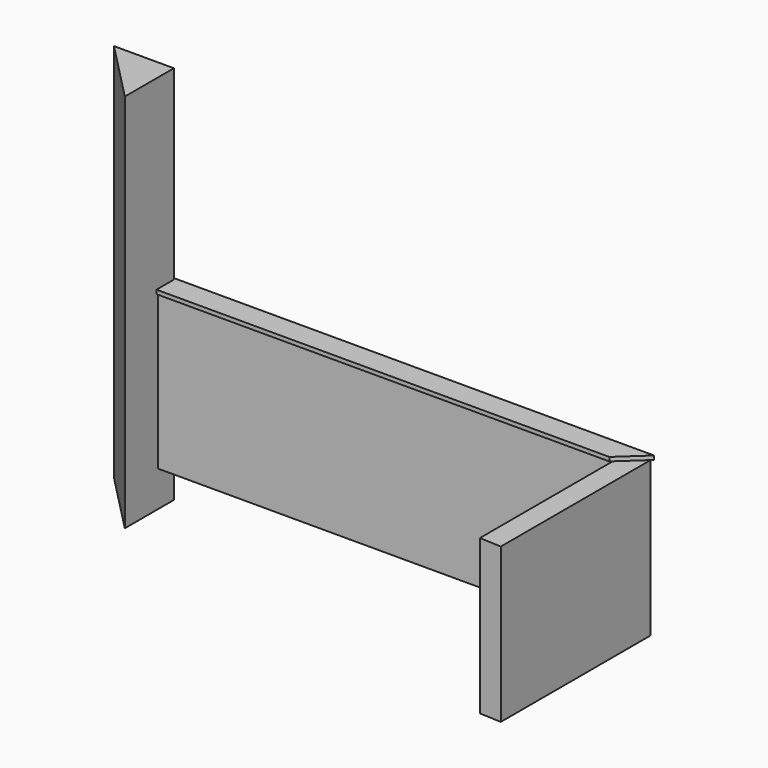
from build123d import *

# Parameters (mm, degrees)
F1_DEPTH = 990.6
F2_DEPTH = 1219.2
F4_DEPTH = 25.4


with BuildPart() as f1:
    # F0 (on Top) → F1 (new body)
    with BuildSketch(Plane.XY):
        Polygon((2592.781305, 0), (-464.743695, 0), (-464.743695, -127), (2453.081305, -127), (2453.081305, -1193.8), (2592.781305, -1200.15), align=None)
    extrude(amount=-F1_DEPTH)

    # F0 (on Top) → F2 (join, symmetric)
    with BuildSketch(Plane.XY):
        Polygon((-464.743695, 0), (-849.385236, 0), (-464.743695, -393.55716), (-464.743695, -127), align=None)
    extrude(amount=F2_DEPTH, both=True)

    # F3 (on face) → F4 (join)
    with BuildSketch(Plane.XY):
        Polygon((-464.767388, 0), (-464.767388, -139.7), (2440.381305, -139.7), (2605.481305, 12.7), (-464.767388, 12.7), (-477.467388, 0), align=None)
    extrude(amount=F4_DEPTH)


solid = f1.part
